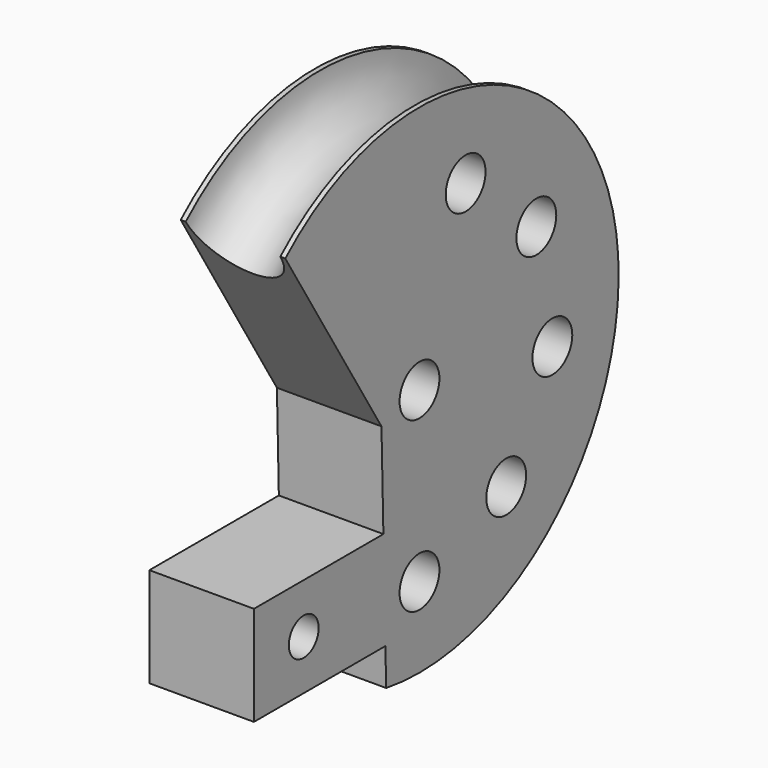
from build123d import *

# Parameters (mm, degrees)
F0_R     = 9.525
F0_R_2   = 12.7
F1_DEPTH = 53.34


with BuildPart() as f1:
    # F0 (on Right) → F1 (new body)
    with BuildSketch(Plane.YZ):
        with BuildLine():
            Line((-21.7306433309, -106.1653788452), (-21.2513333333, -125.2093480198))
            ThreePointArc((-21.2513333333, -125.2093480198), (121.8537281077, 35.7864352271), (-85.5809014362, 93.8344782549))
            Line((-85.5809014362, 93.8344782549), (-24.2392100937, -6.4948767698))
            Line((-24.2392100937, -6.4948767698), (-23.0092080907, -55.3653788452))
            Line((-23.0092080907, -55.3653788452), (-105.5592080907, -55.3653788452))
            Line((-105.5592080907, -55.3653788452), (-105.5592080907, -106.1653788452))
            Line((-105.5592080907, -106.1653788452), (-21.7306433309, -106.1653788452))
        make_face()
        with Locations((-73.8092080907, -80.7653788452)):
            Circle(F0_R, mode=Mode.SUBTRACT)
        with Locations((0, -86.0425)):
            Circle(F0_R_2, mode=Mode.SUBTRACT)
        with Locations((55.3070529065, -65.9123789971)):
            Circle(F0_R_2, mode=Mode.SUBTRACT)
        with Locations((84.7353210886, -14.9411233269)):
            Circle(F0_R_2, mode=Mode.SUBTRACT)
        Circle(F0_R_2, mode=Mode.SUBTRACT)
        with Locations((74.5149908051, 43.02125)):
            Circle(F0_R_2, mode=Mode.SUBTRACT)
        with Locations((29.4282681821, 80.853502324)):
            Circle(F0_R_2, mode=Mode.SUBTRACT)
    extrude(amount=F1_DEPTH)

    # F3: sweep along a path in F3_path
    with BuildLine(Plane(origin=(53.34, -21.2513333333, -125.2093480198), x_dir=(0, 0, 1), z_dir=(1, 0, 0))) as f3_path:
        ThreePointArc((0, 0), (160.995783247, -143.105061441), (219.0438262748, 64.3295681028))
    # F2 (on face) → F3 (sweep, cut)
    with BuildSketch(Plane(origin=(0, -20.5342212669, -12.5546891296), x_dir=(1, 0, 0), z_dir=(0, -0.8531709236, -0.5216314552))):
        with BuildLine():
            ThreePointArc((2.54, 124.6985386355), (26.67, 100.5685386355), (50.8, 124.6985386355))
            Line((50.8, 124.6985386355), (2.54, 124.6985386355))
        make_face()
        with BuildLine():
            Line((2.54, 124.6985386355), (50.8, 124.6985386355))
            ThreePointArc((50.8, 124.6985386355), (26.67, 148.8285386355), (2.54, 124.6985386355))
        make_face()
    sweep(path=f3_path.line, mode=Mode.SUBTRACT)


solid = f1.part
